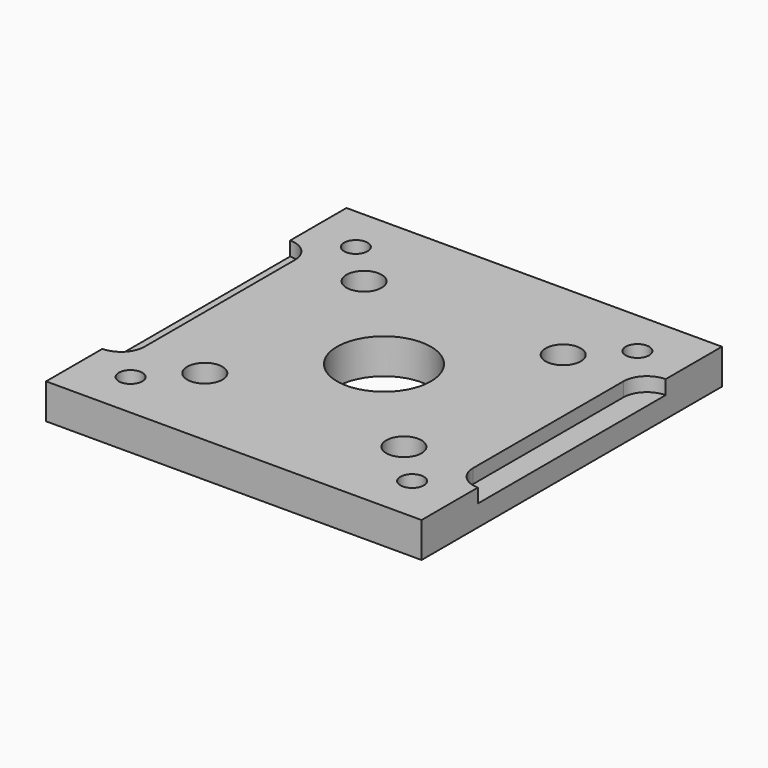
from build123d import *

# Parameters (mm, degrees)
F0_W     = 101.6
F0_H     = 101.6
F0_R     = 3.175
F0_R_2   = 4.7625
F0_R_3   = 12.7
F1_DEPTH = 9.525
F3_DEPTH = 3.81


with BuildPart() as f1:
    # F0 (on Top) → F1 (new body)
    with BuildSketch(Plane.XY):
        with Locations((50.8, 50.8)):
            Rectangle(F0_W, F0_H)
        with Locations((12.7, 12.7)):
            Circle(F0_R, mode=Mode.SUBTRACT)
        with Locations((23.859232, 23.859232)):
            Circle(F0_R_2, mode=Mode.SUBTRACT)
        with Locations((50.8, 50.8)):
            Circle(F0_R_3, mode=Mode.SUBTRACT)
        with Locations((77.740768, 23.859232)):
            Circle(F0_R_2, mode=Mode.SUBTRACT)
        with Locations((88.9, 12.7)):
            Circle(F0_R, mode=Mode.SUBTRACT)
        with Locations((23.859232, 77.740768)):
            Circle(F0_R_2, mode=Mode.SUBTRACT)
        with Locations((12.7, 88.9)):
            Circle(F0_R, mode=Mode.SUBTRACT)
        with Locations((77.740768, 77.740768)):
            Circle(F0_R_2, mode=Mode.SUBTRACT)
        with Locations((88.9, 88.9)):
            Circle(F0_R, mode=Mode.SUBTRACT)
    extrude(amount=F1_DEPTH)

    # F2 (on face) → F3 (cut)
    with BuildSketch(Plane.XY.offset(9.525)):
        with BuildLine():
            Line((6.35, 25.4), (6.35, 76.2))
            ThreePointArc((6.35, 76.2), (4.490128, 80.690128), (0, 82.55))
            Line((0, 82.55), (0, 19.05))
            ThreePointArc((0, 19.05), (4.490128, 20.909872), (6.35, 25.4))
        make_face()
        with BuildLine():
            Line((101.6, 19.05), (101.6, 82.55))
            ThreePointArc((101.6, 82.55), (97.109872, 80.690128), (95.25, 76.2))
            Line((95.25, 76.2), (95.25, 25.4))
            ThreePointArc((95.25, 25.4), (97.109872, 20.909872), (101.6, 19.05))
        make_face()
        with BuildLine():
            Line((101.6, 19.05), (101.6, 82.55))
            ThreePointArc((101.6, 82.55), (97.109872, 80.690128), (95.25, 76.2))
            Line((95.25, 76.2), (95.25, 25.4))
            ThreePointArc((95.25, 25.4), (97.109872, 20.909872), (101.6, 19.05))
        make_face()
        with BuildLine():
            Line((6.35, 25.4), (6.35, 76.2))
            ThreePointArc((6.35, 76.2), (4.490128, 80.690128), (0, 82.55))
            Line((0, 82.55), (0, 19.05))
            ThreePointArc((0, 19.05), (4.490128, 20.909872), (6.35, 25.4))
        make_face()
    extrude(amount=-F3_DEPTH, mode=Mode.SUBTRACT)


solid = f1.part
